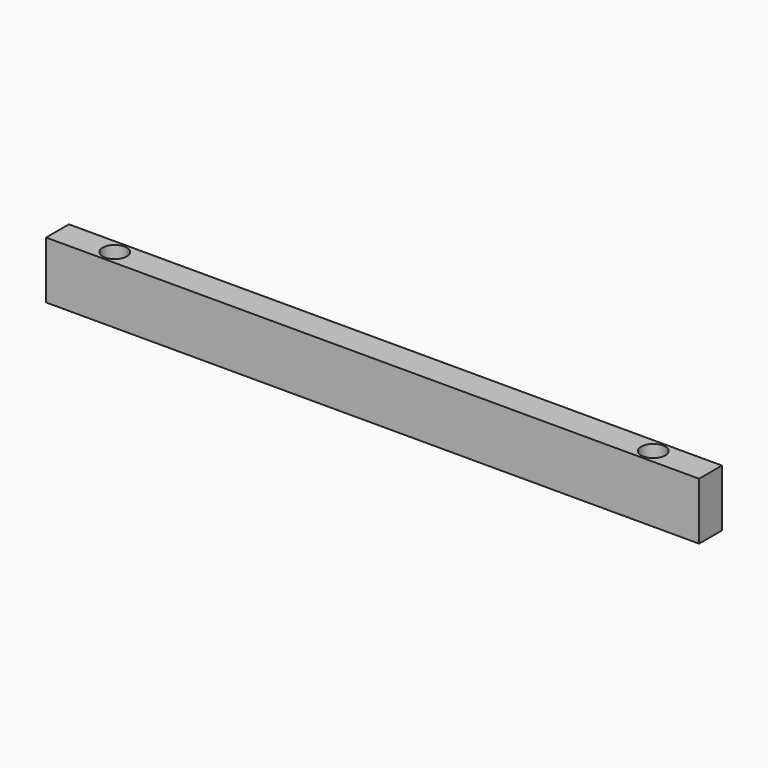
from build123d import *

# Parameters (mm, degrees)
F0_W     = 145
F0_H     = 12.7
F1_DEPTH = 6.35
F3_D     = 5.334
F3_DEPTH = 12.7


with BuildPart() as f1:
    # F0 (on Front) → F1 (new body)
    with BuildSketch(Plane.XZ):
        with Locations((72.5, 6.35)):
            Rectangle(F0_W, F0_H)
    extrude(amount=F1_DEPTH)

    # F3
    with Locations(Plane.XY.offset(12.7)):
        with Locations((12.7, -3.175), (132.3, -3.175)):
            Hole(F3_D / 2, depth=F3_DEPTH)


solid = f1.part
